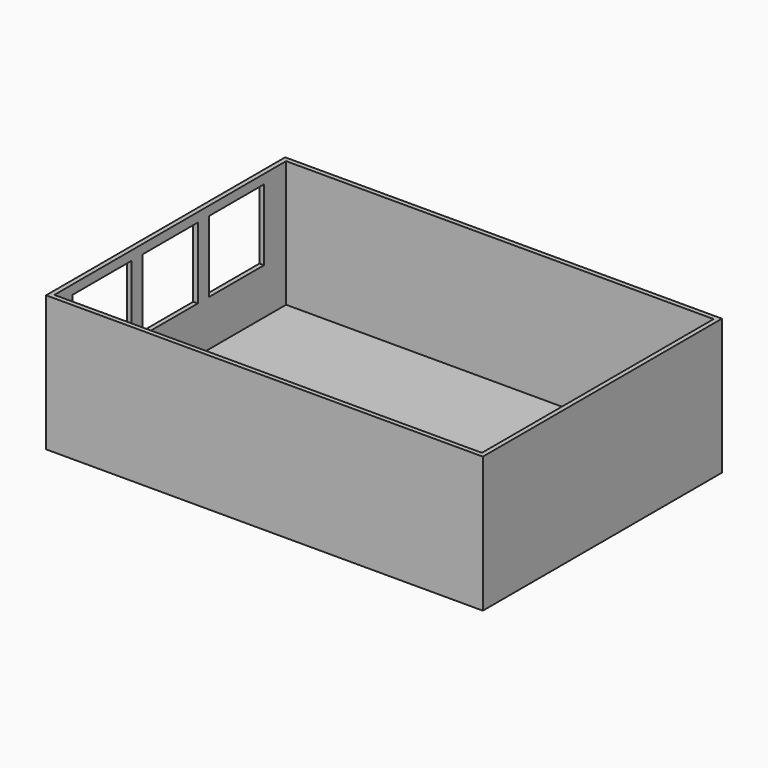
from build123d import *

# Parameters (mm, degrees)
F0_W     = 95
F0_H     = 65
F0_W_2   = 93
F0_H_2   = 63
F1_DEPTH = 12
F2_DEPTH = 2
F3_W     = 1
F3_H     = 3
F4_DEPTH = 1.5
F5_W     = 1
F5_H     = 3
F6_DEPTH = 14
F7_W     = 95
F7_H     = 65
F7_W_2   = 93
F7_H_2   = 63
F8_DEPTH = 2


with BuildPart() as f1:
    # F0 (on Top) → F1 (new body)
    with BuildSketch(Plane.XY):
        Rectangle(F0_W, F0_H)
        Rectangle(F0_W_2, F0_H_2, mode=Mode.SUBTRACT)
    extrude(amount=F1_DEPTH)

    # F0 (on Top) → F2 (join)
    with BuildSketch(Plane.XY):
        Rectangle(F0_W_2, F0_H_2)
    extrude(amount=F2_DEPTH)

    # F3 (on face) → F4 (join)
    with BuildSketch(Plane.XY.offset(12)):
        Polygon((47.5, 32.5), (-47.5, 32.5), (-47.5, 25.5), (-46.5, 25.5), (-46.5, 31.5), (46.5, 31.5), (46.5, -31.5), (-46.5, -31.5), (-46.5, -7.5), (-47.5, -7.5), (-47.5, -32.5), (47.5, -32.5), align=None)
        with Locations((-47, 9)):
            Rectangle(F3_W, F3_H)
    extrude(amount=F4_DEPTH)

    # F5 (on face) → F6 (join)
    with BuildSketch(Plane.XY.offset(13.5)):
        Polygon((47.5, -32.5), (47.5, 32.5), (-47.5, 32.5), (-47.5, 25.5), (-46.5, 25.5), (-46.5, 31.5), (46.5, 31.5), (46.5, -31.5), (-46.5, -31.5), (-46.5, -26.5), (-47.5, -26.5), (-47.5, -32.5), align=None)
        with Locations((-47, -9)):
            Rectangle(F5_W, F5_H)
        with Locations((-47, 9)):
            Rectangle(F5_W, F5_H)
    extrude(amount=F6_DEPTH)

    # F7 (on face) → F8 (join)
    with BuildSketch(Plane.XY.offset(27.5)):
        Rectangle(F7_W, F7_H)
        Rectangle(F7_W_2, F7_H_2, mode=Mode.SUBTRACT)
    extrude(amount=F8_DEPTH)


solid = f1.part
